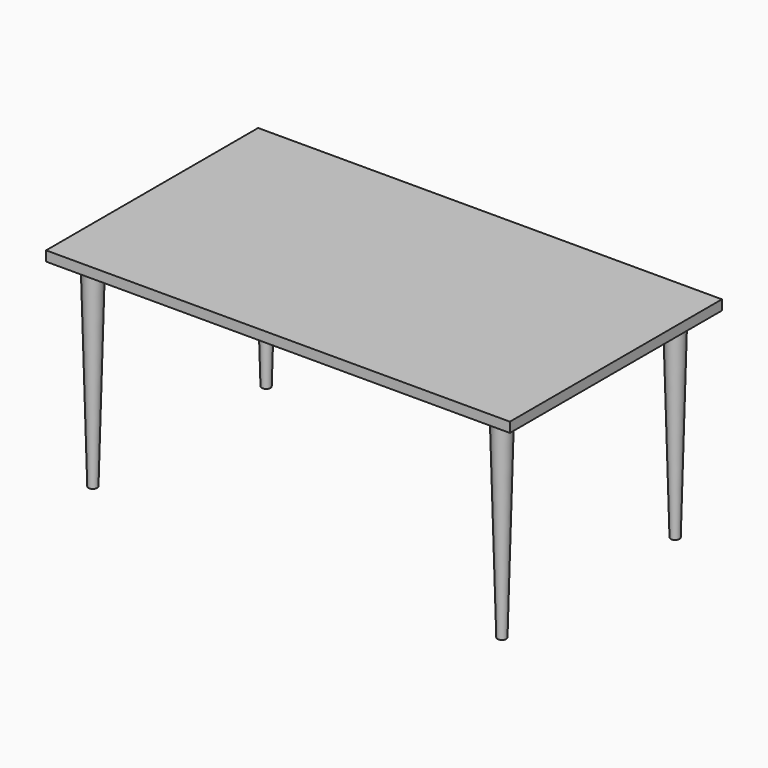
from build123d import *

# Parameters (mm, degrees)
F0_W     = 700
F0_H     = 400
F1_DEPTH = 15
F2_R     = 14.4912152611
F3_DEPTH = 300
F3_TAPER = 1.5


with BuildPart() as f1:
    # F0 (on Top) → F1 (new body)
    with BuildSketch(Plane.XY):
        Rectangle(F0_W, F0_H)
    extrude(amount=-F1_DEPTH)

    # F2 (on face) → F3 (join)
    with BuildSketch(Plane(origin=(0, 0, -15), x_dir=(1, 0, 0), z_dir=(0, 0, -1))):
        with Locations((-308.6517751217, 163.4196043015)):
            Circle(F2_R)
        with Locations((-308.6517751217, -163.4196043015)):
            Circle(F2_R)
        with Locations((308.6517751217, 163.4196043015)):
            Circle(F2_R)
        with Locations((308.6517751217, -163.4196043015)):
            Circle(F2_R)
    extrude(amount=F3_DEPTH, taper=F3_TAPER)


solid = f1.part
